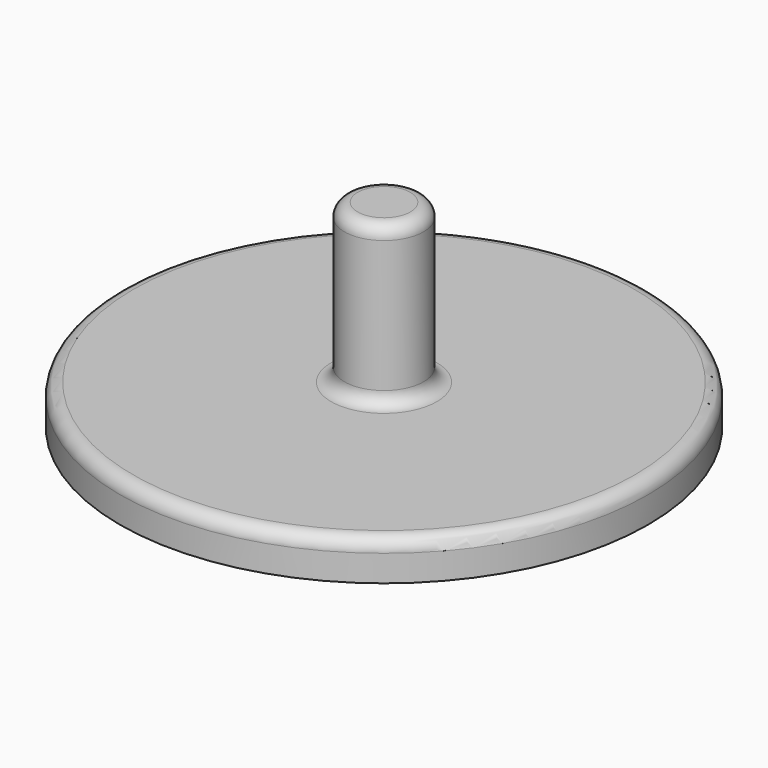
from build123d import *

# Parameters (mm, degrees)
F0_R     = 20
F1_DEPTH = 3
F2_R     = 3
F3_DEPTH = 12
F4_R     = 1


with BuildPart() as f1:
    # F0 (on Top) → F1 (new body)
    with BuildSketch(Plane.XY):
        Circle(F0_R)
    extrude(amount=-F1_DEPTH)

    # F2 (on face) → F3 (join)
    with BuildSketch(Plane.XY):
        Circle(F2_R)
    extrude(amount=F3_DEPTH)

    # F4
    f4_edges = [f1.edges().sort_by_distance(p)[0] for p in [
        (-20, 0, 0),
        (-3, 0, 12),
        (-3, 0, 0),
    ]]
    fillet(f4_edges, radius=F4_R)


solid = f1.part
